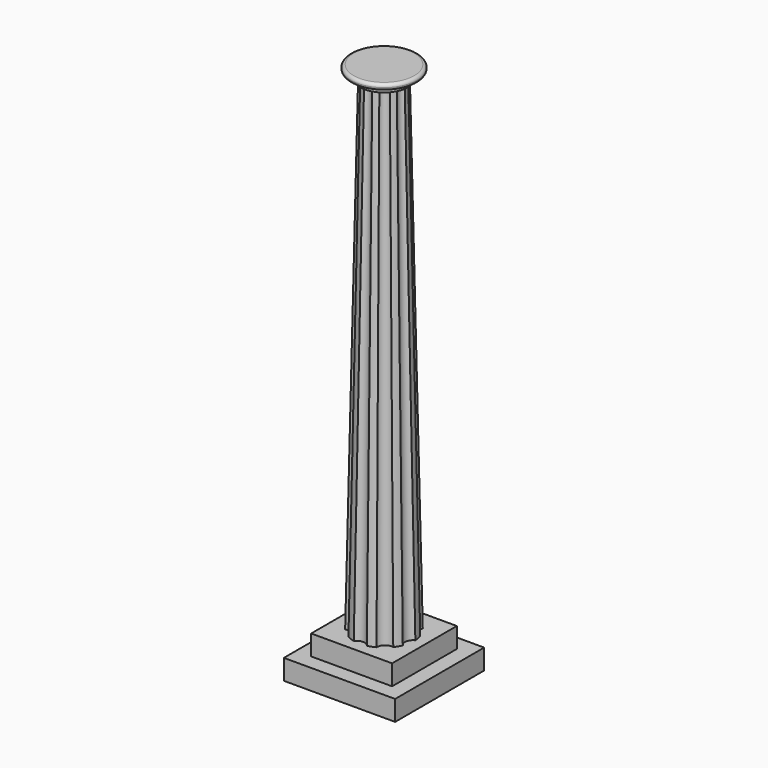
from build123d import *

# Parameters (mm, degrees)
F6_W     = 50.8
F6_H     = 50.8
F7_DEPTH = 12.7
F8_W     = 69.85
F8_H     = 69.85
F8_W_2   = 50.8
F8_H_2   = 50.8
F9_DEPTH = 12.7


with BuildPart() as f3:
    # F0 (on Top) → F3 section 0
    with BuildSketch(Plane.XY):
        with BuildLine():
            ThreePointArc((17.6057903258, -7.2758949281), (16.2591760022, -2.8669314133), (19.0325338784, 0.815569843))
            ThreePointArc((19.0325338784, 0.815569843), (18.7605876949, 3.3079977846), (18.163672955, 5.7431250017))
            ThreePointArc((18.163672955, 5.7431250017), (14.2980794165, 8.255), (14.0555286261, 12.8586397042))
            ThreePointArc((14.0555286261, 12.8586397042), (12.2451039645, 14.5931466414), (10.2225711418, 16.0748729155))
            ThreePointArc((10.2225711418, 16.0748729155), (5.6467525663, 15.5143251692), (2.5017853198, 18.8850091399))
            ThreePointArc((2.5017853198, 18.8850091399), (0, 19.05), (-2.5017853198, 18.8850091399))
            ThreePointArc((-2.5017853198, 18.8850091399), (-5.6467525663, 15.5143251692), (-10.2225711418, 16.0748729155))
            ThreePointArc((-10.2225711418, 16.0748729155), (-12.2451039645, 14.5931466414), (-14.0555286261, 12.8586397042))
            ThreePointArc((-14.0555286261, 12.8586397042), (-14.2980794165, 8.255), (-18.163672955, 5.7431250017))
            ThreePointArc((-18.163672955, 5.7431250017), (-18.7605876949, 3.3079977846), (-19.0325338784, 0.815569843))
            ThreePointArc((-19.0325338784, 0.815569843), (-16.2591760022, -2.8669314133), (-17.6057903258, -7.2758949281))
            ThreePointArc((-17.6057903258, -7.2758949281), (-16.4977839421, -9.525), (-15.1040050059, -11.6091142117))
            ThreePointArc((-15.1040050059, -11.6091142117), (-10.6124234359, -12.6473937559), (-8.8099627366, -16.8904427586))
            ThreePointArc((-8.8099627366, -16.8904427586), (-6.5154837304, -17.901144426), (-4.1081443289, -18.6017647059))
            ThreePointArc((-4.1081443289, -18.6017647059), (0, -16.51), (4.1081443289, -18.6017647059))
            ThreePointArc((4.1081443289, -18.6017647059), (6.5154837304, -17.901144426), (8.8099627366, -16.8904427586))
            ThreePointArc((8.8099627366, -16.8904427586), (10.6124234359, -12.6473937559), (15.1040050059, -11.6091142117))
            ThreePointArc((15.1040050059, -11.6091142117), (16.4977839421, -9.525), (17.6057903258, -7.2758949281))
        make_face()
    # F2 (on offset) → F3 section 1
    with BuildSketch(Plane.XY.offset(304.8)):
        with BuildLine():
            ThreePointArc((11.7986839939, -4.6990484156), (11.2563526169, -1.9847986707), (12.6943054966, 0.3802735302))
            ThreePointArc((12.6943054966, 0.3802735302), (12.5070584633, 2.2053318564), (12.0588064085, 3.9843679552))
            ThreePointArc((12.0588064085, 3.9843679552), (9.8986703653, 5.715), (9.4799670714, 8.4510487115))
            ThreePointArc((9.4799670714, 8.4510487115), (8.163402643, 9.7287644276), (6.6764792859, 10.8034542784))
            ThreePointArc((6.6764792859, 10.8034542784), (3.9092902382, 10.7406866556), (1.8298466954, 12.5674842777))
            ThreePointArc((1.8298466954, 12.5674842777), (0, 12.7), (-1.8298466954, 12.5674842777))
            ThreePointArc((-1.8298466954, 12.5674842777), (-3.9092902382, 10.7406866556), (-6.6764792859, 10.8034542784))
            ThreePointArc((-6.6764792859, 10.8034542784), (-8.163402643, 9.7287644276), (-9.4799670714, 8.4510487115))
            ThreePointArc((-9.4799670714, 8.4510487115), (-9.8986703653, 5.715), (-12.0588064085, 3.9843679552))
            ThreePointArc((-12.0588064085, 3.9843679552), (-12.5070584633, 2.2053318564), (-12.6943054966, 0.3802735302))
            ThreePointArc((-12.6943054966, 0.3802735302), (-11.2563526169, -1.9847986707), (-11.7986839939, -4.6990484156))
            ThreePointArc((-11.7986839939, -4.6990484156), (-10.9985226281, -6.35), (-9.9688372985, -7.8684358621))
            ThreePointArc((-9.9688372985, -7.8684358621), (-7.3470623787, -8.7558879848), (-6.0178262108, -11.1837278086))
            ThreePointArc((-6.0178262108, -11.1837278086), (-4.3436558202, -11.934096284), (-2.5788393371, -12.4354166667))
            ThreePointArc((-2.5788393371, -12.4354166667), (0, -11.43), (2.5788393371, -12.4354166667))
            ThreePointArc((2.5788393371, -12.4354166667), (4.3436558202, -11.934096284), (6.0178262108, -11.1837278086))
            ThreePointArc((6.0178262108, -11.1837278086), (7.3470623787, -8.7558879848), (9.9688372985, -7.8684358621))
            ThreePointArc((9.9688372985, -7.8684358621), (10.9985226281, -6.35), (11.7986839939, -4.6990484156))
        make_face()
    loft()

    # F4 (on Right) → F5 (revolve)
    with BuildSketch(Plane.YZ):
        with BuildLine():
            Line((0, 312.42), (0, 304.8))
            Line((0, 304.8), (15.24, 304.8))
            Line((15.24, 304.8), (15.24, 308.61))
            Line((15.24, 308.61), (19.05, 308.61))
            ThreePointArc((19.05, 308.61), (17.145, 310.515), (19.05, 312.42))
            Line((19.05, 312.42), (0, 312.42))
        make_face()
        with BuildLine():
            Line((19.05, 308.61), (19.05, 312.42))
            ThreePointArc((19.05, 312.42), (17.145, 310.515), (19.05, 308.61))
        make_face()
        with BuildLine():
            ThreePointArc((20.955, 310.515), (20.3970384182, 311.8620384182), (19.05, 312.42))
            Line((19.05, 312.42), (19.05, 308.61))
            ThreePointArc((19.05, 308.61), (20.3970384182, 309.1679615818), (20.955, 310.515))
        make_face()
    revolve(axis=Axis((0, 0, 308.61), (0, 0, 1)))

    # F6 (on Top) → F7 (join)
    with BuildSketch(Plane.XY):
        Rectangle(F6_W, F6_H)
    extrude(amount=-F7_DEPTH)

    # F8 (on face) → F9 (join)
    with BuildSketch(Plane(origin=(0, 0, -12.7), x_dir=(1, 0, 0), z_dir=(0, 0, -1))):
        Rectangle(F8_W, F8_H)
        Rectangle(F8_W_2, F8_H_2, mode=Mode.SUBTRACT)
        Rectangle(F8_W_2, F8_H_2)
    extrude(amount=F9_DEPTH)


solid = f3.part
